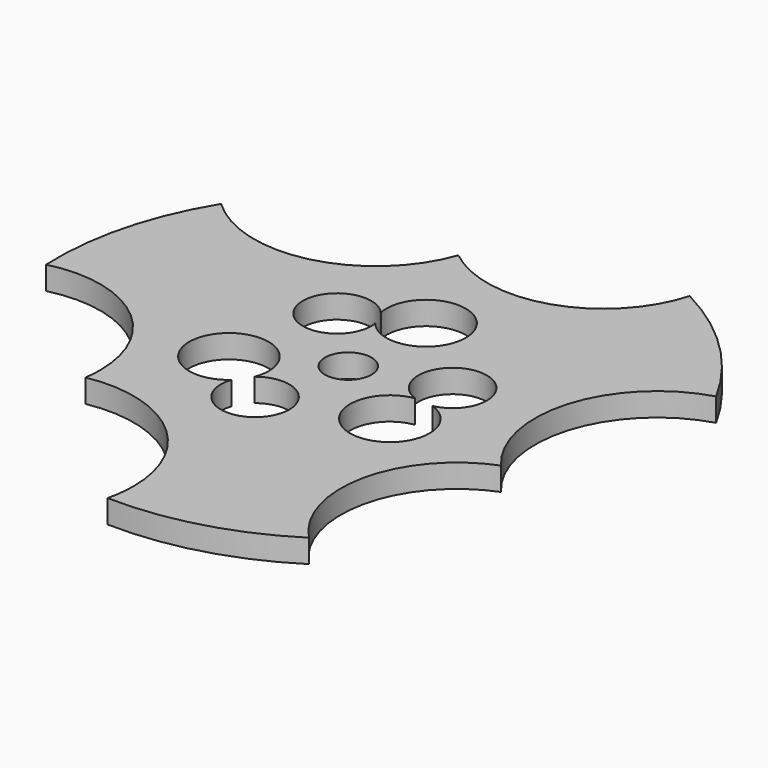
from build123d import *

# Parameters (mm, degrees)
F0_R     = 3
F1_DEPTH = 3


with BuildPart() as f1:
    # F0 (on Top) → F1 (new body)
    with BuildSketch(Plane.XY):
        with BuildLine():
            ThreePointArc((63.045577, 30.175884), (59.921155, 44.86016), (70.53863, 55.474264))
            ThreePointArc((70.53863, 55.474264), (63.821666, 64.366246), (54.794015, 70.899735))
            ThreePointArc((54.794015, 70.899735), (44.969704, 60.743931), (31.070082, 63.285176))
            ThreePointArc((31.070082, 63.285176), (19.915337, 53.237209), (5.414516, 57.125161))
            ThreePointArc((5.414516, 57.125161), (1.072316, 46.862108), (-0.072026, 35.777189))
            ThreePointArc((-0.072026, 35.777189), (12.784033, 33.063224), (18.54944, 21.256279))
            ThreePointArc((18.54944, 21.256279), (18.508109, 20.14454), (18.384341, 19.038939))
            ThreePointArc((18.384341, 19.038939), (31.309961, 15.670087), (36.982631, 3.577047))
            ThreePointArc((36.982631, 3.577047), (36.873307, 1.725943), (36.546854, -0.099425))
            ThreePointArc((36.546854, -0.099425), (47.606019, 1.271646), (57.778011, 5.823076))
            ThreePointArc((57.778011, 5.823076), (53.894982, 19.409081), (63.045577, 30.175884))
        make_face()
        with BuildLine():
            ThreePointArc((30.200464, 27.814046), (22.136058, 33.735076), (31.918609, 31.638666))
            ThreePointArc((31.918609, 31.638666), (31.832643, 30.704753), (31.577635, 29.802226))
            ThreePointArc((31.577635, 29.802226), (36.258083, 30.378971), (38.780902, 26.394676))
            ThreePointArc((38.780902, 26.394676), (33.653958, 22.046155), (30.200464, 27.814046))
        make_face(mode=Mode.SUBTRACT)
        with Locations((37.5, 37.5)):
            Circle(F0_R, mode=Mode.SUBTRACT)
        with BuildLine():
            ThreePointArc((47.12765, 36.219969), (46.172746, 43.969278), (53.088464, 40.344849))
            ThreePointArc((53.088464, 40.344849), (52.087114, 37.547631), (49.53805, 36.021393))
            ThreePointArc((49.53805, 36.021393), (52.07358, 34.159762), (53.04062, 31.166535))
            ThreePointArc((53.04062, 31.166535), (44.60095, 27.277435), (47.12765, 36.219969))
        make_face(mode=Mode.SUBTRACT)
        with BuildLine():
            ThreePointArc((32.761486, 48.664561), (37.254807, 54.784436), (42.888491, 49.694799))
            ThreePointArc((42.888491, 49.694799), (39.478763, 44.871786), (33.794715, 46.477805))
            ThreePointArc((33.794715, 46.477805), (33.838763, 46.120341), (33.853478, 45.760475))
            ThreePointArc((33.853478, 45.760475), (25.32027, 44.209172), (32.761486, 48.664561))
        make_face(mode=Mode.SUBTRACT)
    extrude(amount=F1_DEPTH)


solid = f1.part
